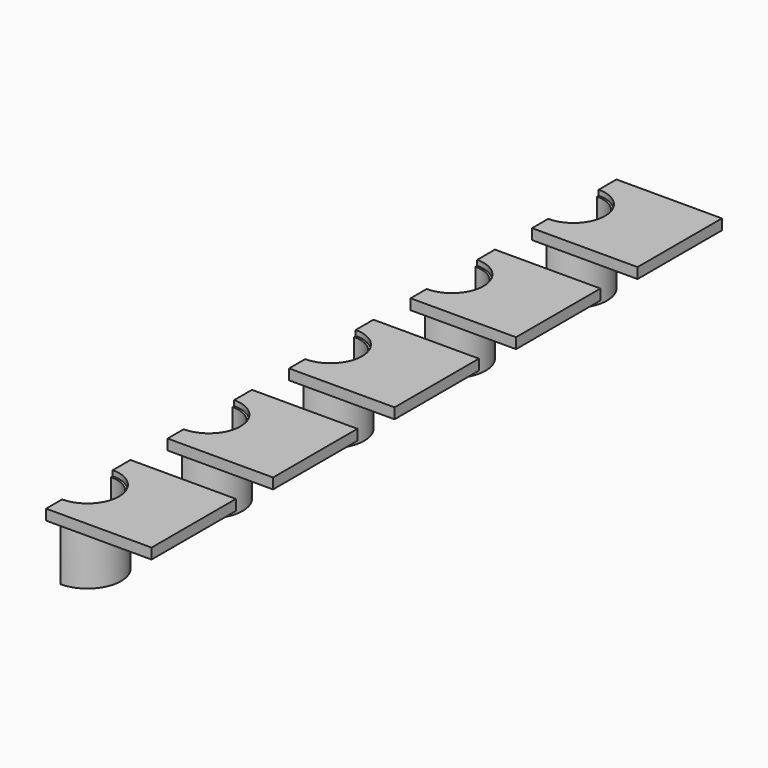
from build123d import *

# Parameters (mm, degrees)
BOX005_W          = 1
BOX005_H          = 1
BOX005_DEPTH      = 1
CYLINDER003_R     = 0.28
CYLINDER003_DEPTH = 3
CYLINDER004_R     = 0.32
CYLINDER004_DEPTH = 0.65
CYLINDER001_R     = 0.3
CYLINDER001_DEPTH = 1
BOX003_W          = 1
BOX003_H          = 1
BOX003_DEPTH      = 0.1
ARRAY004_Y_COUNT  = 5
ARRAY004_Y_PITCH  = 1.44


with BuildPart() as kub005:
    # Box005 → Box005 (new body)
    with BuildSketch(Plane(origin=(-1, -0.5, 0), x_dir=(1, 0, 0), z_dir=(0, 0, 1))):
        with Locations((0.5, 0.5)):
            Rectangle(BOX005_W, BOX005_H)
    extrude(amount=BOX005_DEPTH)


with BuildPart() as cylinder003:
    # Cylinder003 → Cylinder003 (new body)
    with BuildSketch(Plane.XY.offset(-1)):
        Circle(CYLINDER003_R)
    extrude(amount=CYLINDER003_DEPTH)


with BuildPart() as cut007:
    # Cylinder004 → Cylinder004 (new body)
    with BuildSketch(Plane.XY):
        Circle(CYLINDER004_R)
    extrude(amount=CYLINDER004_DEPTH)

    # Cut006: cut Cylinder003
    add(cylinder003.part, mode=Mode.SUBTRACT)

    # Cut007: cut Kub005
    add(kub005.part, mode=Mode.SUBTRACT)


with BuildPart() as cylinder001:
    # Cylinder001 → Cylinder001 (new body)
    with BuildSketch(Plane.XY):
        Circle(CYLINDER001_R)
    extrude(amount=CYLINDER001_DEPTH)


with BuildPart() as array004:
    # Box003 → Box003 (new body)
    with BuildSketch(Plane(origin=(0, -0.49, 0.6), x_dir=(1, 0, 0), z_dir=(0, 0, 1))):
        with Locations((0.5, 0.5)):
            Rectangle(BOX003_W, BOX003_H)
    extrude(amount=BOX003_DEPTH)

    # Cut010: cut Cylinder001
    add(cylinder001.part, mode=Mode.SUBTRACT)

    # Fusion: union Cut007
    add(cut007.part)

    # Array004 Y: Array004 ×5


with BuildPart() as array004_1:
    add(array004.part)
    with Locations(*[(0, -i * ARRAY004_Y_PITCH, 0) for i in range(1, ARRAY004_Y_COUNT)]):
        add(array004.part)


with BuildPart() as array004_2:
    # Array004 placement: moved
    add(array004_1.part.moved(Location((-5, 2.88, 0))))


solid = array004_2.part
